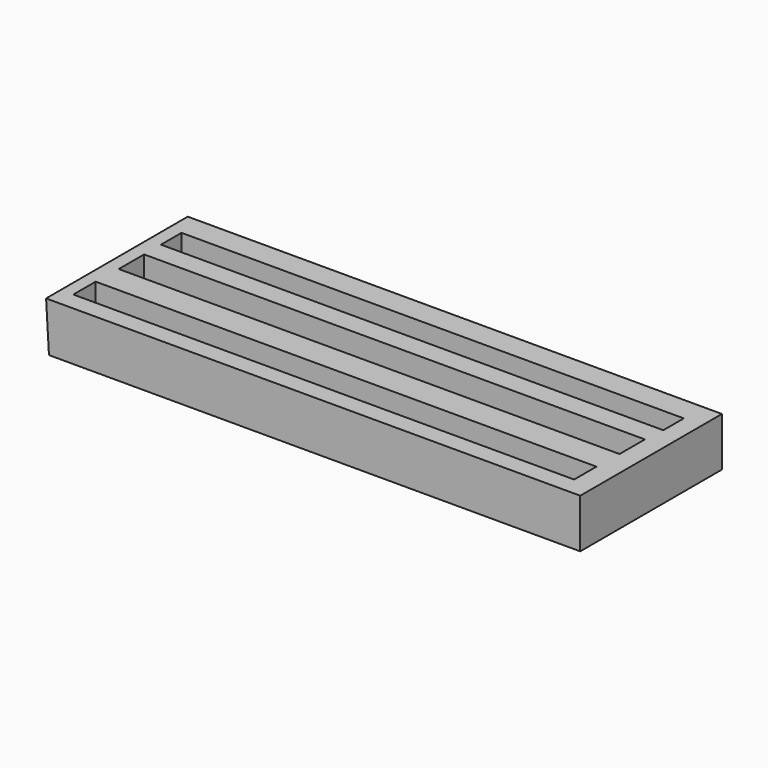
from build123d import *

# Parameters (mm, degrees)
F1_DEPTH = 508
F2_W     = 1436.565518
F2_H     = 80.049575
F2_W_2   = 1436.565519
F2_H_2   = 90.867102
F2_W_3   = 1440.892518
F2_H_3   = 73.559083
F3_DEPTH = 254


with BuildPart() as f1:
    # F0 (on Front) → F1 (new body)
    with BuildSketch(Plane.XZ):
        Polygon((759.084124, 116.439129), (-773.183558, 116.439129), (-764.915876, -24.110599), (759.084124, -24.110599), align=None)
    extrude(amount=F1_DEPTH)

    # F2 (on face) → F3 (cut)
    with BuildSketch(Plane.XY.offset(116.439129)):
        with Locations((-18.949032, -415.180921)):
            Rectangle(F2_W, F2_H)
        with Locations((-16.785503, -249.673009)):
            Rectangle(F2_W_2, F2_H_2)
        with Locations((-14.622003, -106.881854)):
            Rectangle(F2_W_3, F2_H_3)
    extrude(amount=-F3_DEPTH, mode=Mode.SUBTRACT)


solid = f1.part
